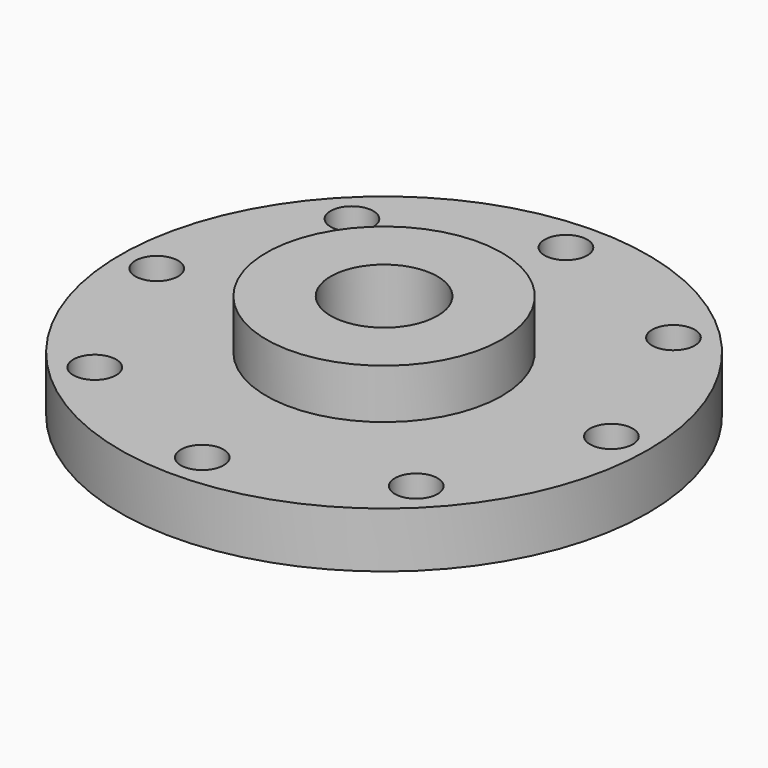
from build123d import *

# Parameters (mm, degrees)
F0_R     = 50
F1_DEPTH = 10.5
F2_R     = 22.3
F3_DEPTH = 9.4
F6_D     = 8.1
F7_R     = 10.115
F8_DEPTH = 25


with BuildPart() as f1:
    # F0 (on Top) → F1 (new body)
    with BuildSketch(Plane.XY):
        Circle(F0_R)
    extrude(amount=F1_DEPTH)

    # F2 (on face) → F3 (join)
    with BuildSketch(Plane.XY.offset(10.5)):
        Circle(F2_R)
    extrude(amount=F3_DEPTH)

    # F6 (through all)
    with Locations(Plane.XY.offset(10.5)):
        with Locations((0, 43.061581), (30.449136, 30.449136), (43.061581, 0), (30.449136, -30.449136), (0, -43.061581), (-30.449136, -30.449136), (-43.061581, 0), (-30.449136, 30.449136)):
            Hole(F6_D / 2)

    # F7 (on face) → F8 (cut)
    with BuildSketch(Plane.XY.offset(19.9)):
        Circle(F7_R)
    extrude(amount=-F8_DEPTH, mode=Mode.SUBTRACT)


solid = f1.part
